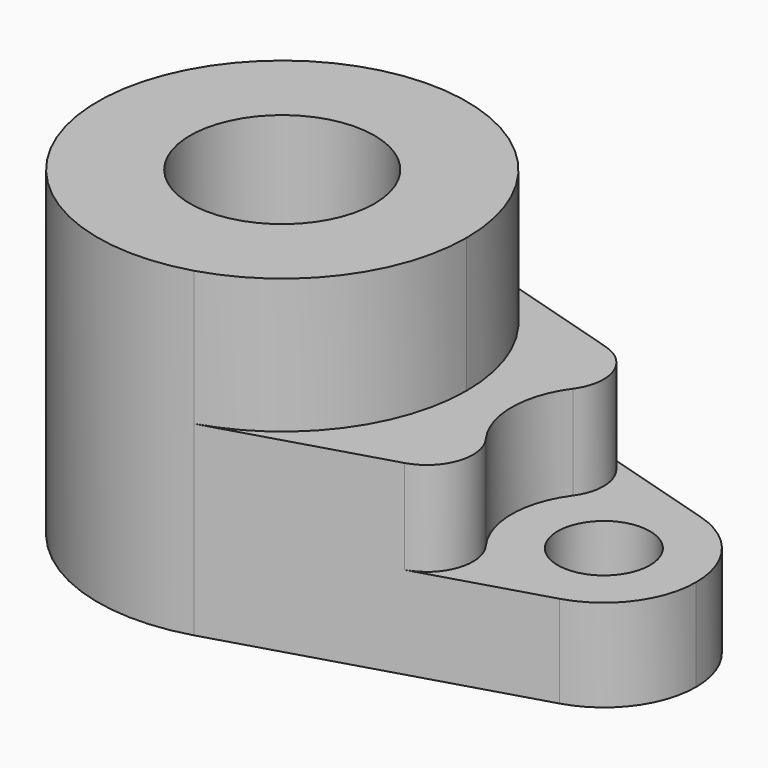
from build123d import *

# Parameters (mm, degrees)
F0_R     = 25.4
F0_R_2   = 12.7
F1_DEPTH = 25.4
F2_DEPTH = 88.392
F3_DEPTH = 51.308
F4_R     = 12.7


with BuildPart() as f1:
    # F0 (on Top) → F1 (new body)
    with BuildSketch(Plane.XY):
        with BuildLine():
            ThreePointArc((14.569248, -48.665974), (40.747747, -30.335805), (50.8, 0))
            ThreePointArc((50.8, 0), (40.747747, 30.335805), (14.569248, 48.665974))
            ThreePointArc((14.569248, 48.665974), (-50.8, 0), (14.569248, -48.665974))
        make_face()
        Circle(F0_R, mode=Mode.SUBTRACT)
        with BuildLine():
            ThreePointArc((14.569248, 48.665974), (40.747747, 30.335805), (50.8, 0))
            ThreePointArc((50.8, 0), (40.747747, -30.335805), (14.569248, -48.665974))
            Line((14.569248, -48.665974), (95.849248, -24.332987))
            ThreePointArc((95.849248, -24.332987), (63.164624, 0), (95.849248, 24.332987))
            Line((95.849248, 24.332987), (14.569248, 48.665974))
        make_face()
        with BuildLine():
            ThreePointArc((113.964624, 0), (108.938498, 15.167903), (95.849248, 24.332987))
            ThreePointArc((95.849248, 24.332987), (63.164624, 0), (95.849248, -24.332987))
            ThreePointArc((95.849248, -24.332987), (108.938498, -15.167903), (113.964624, 0))
        make_face()
        with Locations((88.564624, 0)):
            Circle(F0_R_2, mode=Mode.SUBTRACT)
    extrude(amount=F1_DEPTH)

    # F0 (on Top) → F2 (join)
    with BuildSketch(Plane.XY):
        with BuildLine():
            ThreePointArc((14.569248, -48.665974), (40.747747, -30.335805), (50.8, 0))
            ThreePointArc((50.8, 0), (40.747747, 30.335805), (14.569248, 48.665974))
            ThreePointArc((14.569248, 48.665974), (-50.8, 0), (14.569248, -48.665974))
        make_face()
        Circle(F0_R, mode=Mode.SUBTRACT)
    extrude(amount=F2_DEPTH)

    # F0 (on Top) → F3 (join)
    with BuildSketch(Plane.XY):
        with BuildLine():
            ThreePointArc((14.569248, 48.665974), (40.747747, 30.335805), (50.8, 0))
            ThreePointArc((50.8, 0), (40.747747, -30.335805), (14.569248, -48.665974))
            Line((14.569248, -48.665974), (95.849248, -24.332987))
            ThreePointArc((95.849248, -24.332987), (63.164624, 0), (95.849248, 24.332987))
            Line((95.849248, 24.332987), (14.569248, 48.665974))
        make_face()
    extrude(amount=F3_DEPTH)

    # F4
    f4_edges = [f1.edges().sort_by_distance(p)[0] for p in [
        (95.849248, -24.332987, 38.354),
        (95.849248, 24.332987, 38.354),
    ]]
    fillet(f4_edges, radius=F4_R)


solid = f1.part
